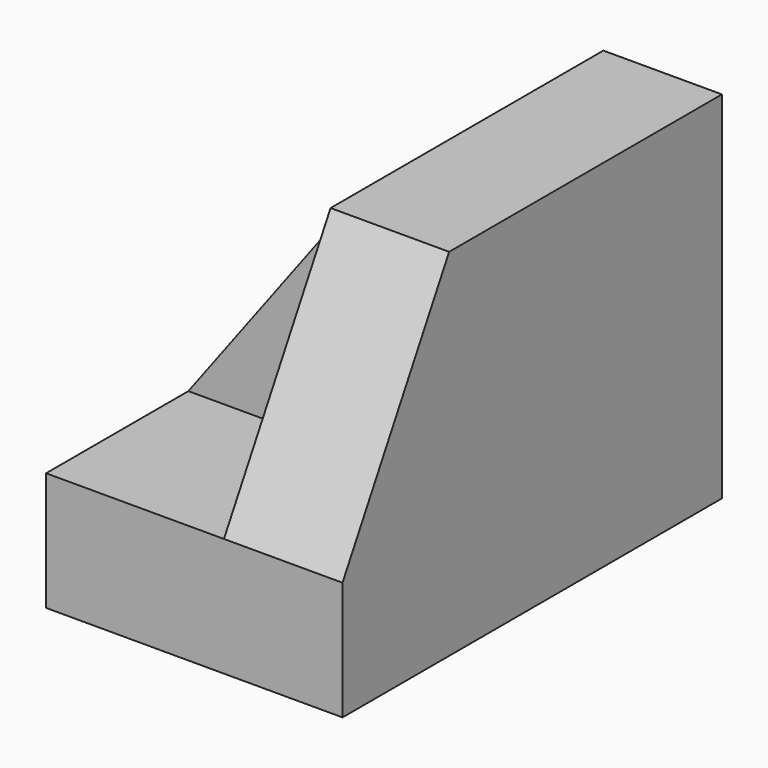
from build123d import *

# Parameters (mm, degrees)
F1_DEPTH = 50.8
F3_DEPTH = 25.4
F4_W     = 12.7
F4_H     = 25.4
F5_DEPTH = 19.05
F7_DEPTH = 25.4


with BuildPart() as f1:
    # F0 (on Front) → F1 (new body)
    with BuildSketch(Plane.XZ):
        Polygon((0, 12.7), (0, 0), (31.75, 0), (31.75, 38.1), (19.05, 38.1), (19.05, 12.7), align=None)
    extrude(amount=F1_DEPTH)

    # F2 (on face) → F3 (cut)
    with BuildSketch(Plane(origin=(19.05, 0, 0), x_dir=(0, -1, 0), z_dir=(-1, 0, 0))):
        Polygon((36.5225, 38.1), (50.8, 12.7), (50.8, 38.1), align=None)
    extrude(amount=-F3_DEPTH, mode=Mode.SUBTRACT)

    # F4 (on face) → F5 (join)
    with BuildSketch(Plane(origin=(19.05, 0, 0), x_dir=(0, -1, 0), z_dir=(-1, 0, 0))):
        with Locations((25.4, 25.4)):
            Rectangle(F4_W, F4_H)
    extrude(amount=F5_DEPTH)

    # F6 (on face) → F7 (cut)
    with BuildSketch(Plane.XZ.offset(31.75)):
        Polygon((0, 12.7), (19.05, 38.1), (0, 38.1), align=None)
    extrude(amount=-F7_DEPTH, mode=Mode.SUBTRACT)


solid = f1.part
